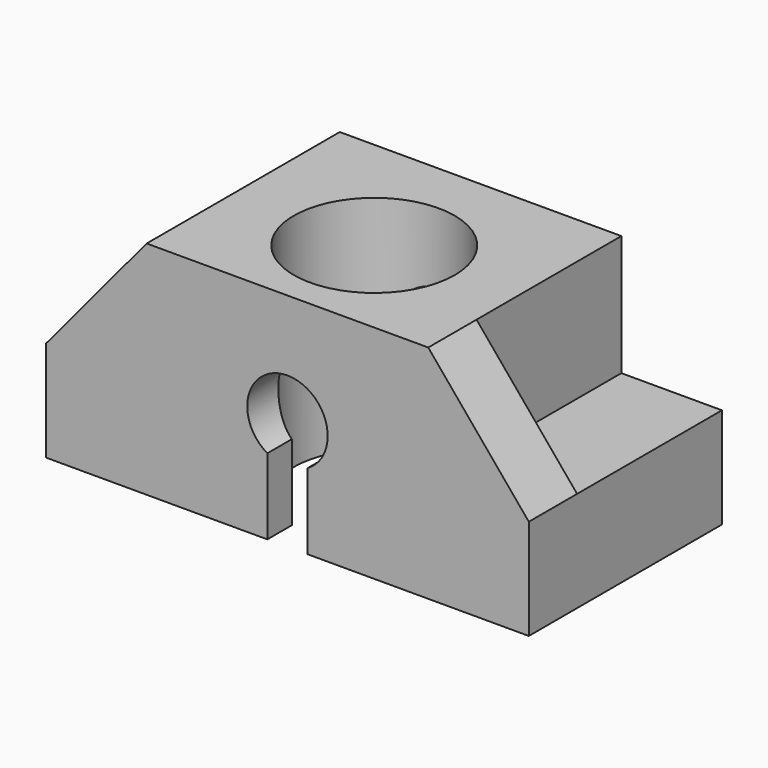
from build123d import *

# Parameters (mm, degrees)
F2_DEPTH  = 600
F3_W      = 250
F3_H      = 300
F4_DEPTH  = 600
F6_DEPTH  = 150
F8_DEPTH  = 150
F9_R      = 200
F10_DEPTH = 550.001


with BuildPart() as f2:
    # F1 (on face) → F2 (new body)
    with BuildSketch(Plane.XZ):
        with BuildLine():
            Line((600, -275), (600, 275))
            Line((600, 275), (-600, 275))
            Line((-600, 275), (-600, -275))
            Line((-600, -275), (-50, -275))
            Line((-50, -275), (-50, -86.6025403784))
            ThreePointArc((-50, -86.6025403784), (0, 100), (50, -86.6025403784))
            Line((50, -86.6025403784), (50, -100))
            Line((50, -100), (50, -101.5080809593))
            Line((50, -101.5080809593), (50, -275))
            Line((50, -275), (600, -275))
        make_face()
    extrude(amount=F2_DEPTH)

    # F3 (on face) → F4 (cut)
    with BuildSketch(Plane.XZ.offset(600)):
        with Locations((-475, 125)):
            Rectangle(F3_W, F3_H)
        with Locations((475, 125)):
            Rectangle(F3_W, F3_H)
    extrude(amount=-F4_DEPTH, mode=Mode.SUBTRACT)

    # F5 (on face) → F6 (join)
    with BuildSketch(Plane.XZ.offset(600)):
        Polygon((-350, 275), (-600, -25), (-350, -25), align=None)
    extrude(amount=-F6_DEPTH)

    # F7 (on face) → F8 (join)
    with BuildSketch(Plane.XZ.offset(600)):
        Polygon((350, -25), (600, -25), (350, 275), align=None)
    extrude(amount=-F8_DEPTH)

    # F9 (on face) → F10 (cut, through all)
    with BuildSketch(Plane.XY.offset(275)):
        with Locations((0, -330.283343792)):
            Circle(F9_R)
    extrude(amount=-F10_DEPTH, mode=Mode.SUBTRACT)


solid = f2.part
